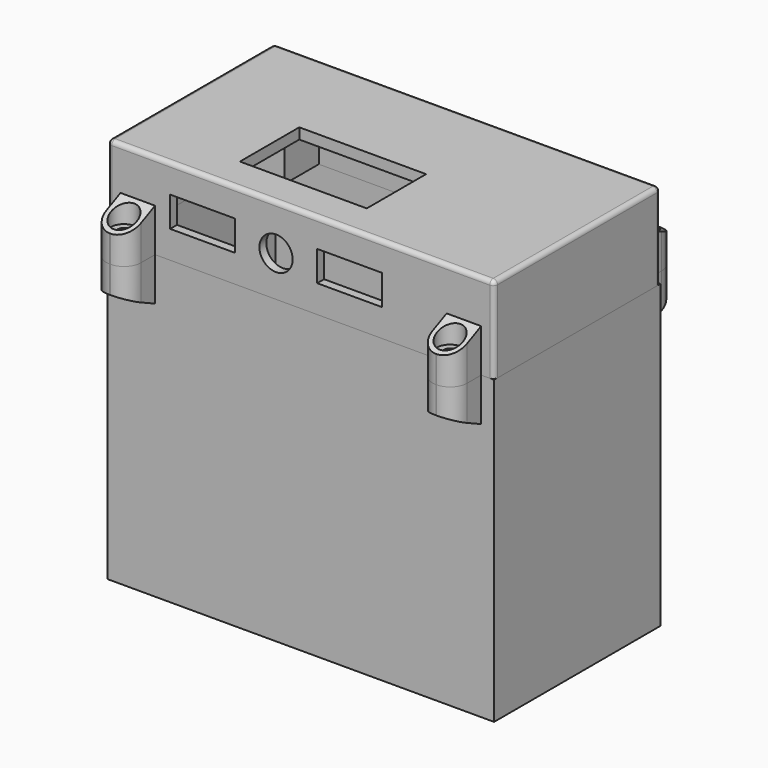
from build123d import *

# Parameters (mm, degrees)
SKETCH_W        = 89.6
SKETCH_H        = 48.2
PAD_DEPTH       = 20
SKETCH001_W     = 85.6
SKETCH001_H     = 44.2
POCKET_DEPTH    = 17.5
SKETCH016_R     = 3.853064
SKETCH016_W     = 15
SKETCH016_H     = 7
POCKET010_DEPTH = 5
SKETCH017_W     = 9
SKETCH017_H     = 4
POCKET011_DEPTH = 5
SKETCH018_W     = 29.4
SKETCH018_H     = 17.2
POCKET012_DEPTH = 5
SKETCH019_R     = 2
SKETCH019_R_2   = 0.7
PAD006_DEPTH    = 3
SKETCH020_W     = 8
SKETCH020_H     = 10
PAD007_DEPTH    = 8
FILLET_R        = 3.9
SKETCH021_R     = 1.5
POCKET013_DEPTH = 20
SKETCH022_W     = 8
SKETCH022_H     = 10
PAD008_DEPTH    = 8
FILLET002_R     = 3.9
SKETCH023_R     = 1.5
POCKET014_DEPTH = 20
SKETCH024_R     = 3
POCKET015_DEPTH = 5
FILLET003_R     = 1
SKETCH028_W     = 10
SKETCH028_H     = 10
PAD011_DEPTH    = 17.5
POCKET017_DEPTH = 100
SKETCH013_W     = 89.6
SKETCH013_H     = 48.2
PAD005_DEPTH    = 69.8
SKETCH014_W     = 85.6
SKETCH014_H     = 44.2
POCKET008_DEPTH = 67.8
SKETCH025_W     = 8
SKETCH025_H     = 10
PAD009_DEPTH    = 8
FILLET004_R     = 3.9
FILLET005_R     = 3.9
SKETCH026_W     = 8
SKETCH026_H     = 10
PAD010_DEPTH    = 8
FILLET006_R     = 3.9
SKETCH027_R     = 1
POCKET016_DEPTH = 9
POCKET018_DEPTH = 100


with BuildPart() as tampa:
    # Sketch → Pad (new body)
    with BuildSketch(Plane.XY):
        with Locations((44.8, 24.1)):
            Rectangle(SKETCH_W, SKETCH_H)
    extrude(amount=PAD_DEPTH)

    # Sketch001 (on Face5 of Pad) → Pocket (cut)
    with BuildSketch(Plane(origin=(0, 0, 0), x_dir=(1, 0, 0), z_dir=(0, 0, -1))):
        with Locations((44.8, -24.1)):
            Rectangle(SKETCH001_W, SKETCH001_H)
    extrude(amount=-POCKET_DEPTH, mode=Mode.SUBTRACT)

    # Sketch016 (on Face1 of Pocket) → Pocket010 (cut)
    with BuildSketch(Plane.XZ):
        with Locations((39.05, 9.4)):
            Circle(SKETCH016_R)
        with Locations((22, 9.9)):
            Rectangle(SKETCH016_W, SKETCH016_H)
        with Locations((56.1, 9.9)):
            Rectangle(SKETCH016_W, SKETCH016_H)
    extrude(amount=-POCKET010_DEPTH, mode=Mode.SUBTRACT)

    # Sketch017 (on Face2 of Pocket010) → Pocket011 (cut)
    with BuildSketch(Plane(origin=(0, 0, 0), x_dir=(0, -1, 0), z_dir=(-1, 0, 0))):
        with Locations((-19, 11.9)):
            Rectangle(SKETCH017_W, SKETCH017_H)
    extrude(amount=-POCKET011_DEPTH, mode=Mode.SUBTRACT)

    # Sketch018 (on Face4 of Pocket011) → Pocket012 (cut)
    with BuildSketch(Plane.XY.offset(20)):
        with Locations((38.9, 16.7)):
            Rectangle(SKETCH018_W, SKETCH018_H)
    extrude(amount=-POCKET012_DEPTH, mode=Mode.SUBTRACT)

    # Sketch019 (on Face28 of Pocket012) → Pad006 (join)
    with BuildSketch(Plane(origin=(0, 0, 17.5), x_dir=(1, 0, 0), z_dir=(0, 0, -1))):
        with Locations((6.3, -6)):
            Circle(SKETCH019_R)
        with Locations((6.3, -6)):
            Circle(SKETCH019_R_2, mode=Mode.SUBTRACT)
        with Locations((66, -23.1)):
            Circle(SKETCH019_R)
        with Locations((66, -23.1)):
            Circle(SKETCH019_R_2, mode=Mode.SUBTRACT)
    extrude(amount=PAD006_DEPTH)

    # Sketch020 (on Face15 of Pad006) → Pad007 (join)
    with BuildSketch(Plane(origin=(0, 48.2, 0), x_dir=(-1, 0, 0), z_dir=(0, 1, 0))):
        with Locations((-7, 5)):
            Rectangle(SKETCH020_W, SKETCH020_H)
        with Locations((-82.6, 5)):
            Rectangle(SKETCH020_W, SKETCH020_H)
    extrude(amount=PAD007_DEPTH)

    # Fillet
    fillet_edges = [tampa.edges().sort_by_distance(p)[0] for p in [
        (86.6, 56.2, 5),
        (78.6, 56.2, 5),
        (11, 56.2, 5),
        (3, 56.2, 5),
    ]]
    fillet(fillet_edges, radius=FILLET_R)

    # Sketch021 (on Face13 of Fillet) → Pocket013 (cut)
    with BuildSketch(Plane(origin=(0, 0, 0), x_dir=(1, 0, 0), z_dir=(0, 0, -1))):
        with Locations((7, -52.2)):
            Circle(SKETCH021_R)
        with Locations((82.6, -52.2)):
            Circle(SKETCH021_R)
    extrude(amount=-POCKET013_DEPTH, mode=Mode.SUBTRACT)

    # Sketch022 (on Face11 of Pocket013) → Pad008 (join)
    with BuildSketch(Plane.XZ):
        with Locations((7, 5)):
            Rectangle(SKETCH022_W, SKETCH022_H)
        with Locations((82.6, 5)):
            Rectangle(SKETCH022_W, SKETCH022_H)
    extrude(amount=PAD008_DEPTH)

    # Fillet002
    fillet002_edges = [tampa.edges().sort_by_distance(p)[0] for p in [
        (11, -8, 5),
        (3, -8, 5),
        (78.6, -8, 5),
        (86.6, -8, 5),
    ]]
    fillet(fillet002_edges, radius=FILLET002_R)

    # Sketch023 (on Face1 of Fillet002) → Pocket014 (cut)
    with BuildSketch(Plane(origin=(0, 0, 0), x_dir=(1, 0, 0), z_dir=(0, 0, -1))):
        with Locations((7, 4)):
            Circle(SKETCH023_R)
        with Locations((82.6, 4)):
            Circle(SKETCH023_R)
    extrude(amount=-POCKET014_DEPTH, mode=Mode.SUBTRACT)

    # Sketch024 → Pocket015 (cut)
    with BuildSketch(Plane.XY.offset(10)):
        with Locations((7, 52.2)):
            Circle(SKETCH024_R)
        with Locations((82.6, 52.2)):
            Circle(SKETCH024_R)
        with Locations((82.6, -4)):
            Circle(SKETCH024_R)
        with Locations((7, -4)):
            Circle(SKETCH024_R)
    extrude(amount=-POCKET015_DEPTH, mode=Mode.SUBTRACT)

    # Fillet003
    fillet003_edges = [tampa.edges().sort_by_distance(p)[0] for p in [
        (44.8, 0, 20),
        (0, 24.1, 20),
        (44.8, 48.2, 20),
        (89.6, 24.1, 20),
        (89.6, 48.2, 10),
        (89.6, 0, 10),
        (0, 0, 10),
        (0, 48.2, 10),
    ]]
    fillet(fillet003_edges, radius=FILLET003_R)

    # Sketch028 (on Face67 of Fillet003) → Pad011 (join)
    with BuildSketch(Plane(origin=(0, 0, 17.5), x_dir=(1, 0, 0), z_dir=(0, 0, -1))):
        with Locations((7, -41.2)):
            Rectangle(SKETCH028_W, SKETCH028_H)
        with Locations((82.6, -41.2)):
            Rectangle(SKETCH028_W, SKETCH028_H)
        with Locations((82.6, -7)):
            Rectangle(SKETCH028_W, SKETCH028_H)
    extrude(amount=PAD011_DEPTH)

    # Sketch029 (on Face11 of Pad011) → Pocket017 (cut)
    with BuildSketch(Plane.YZ.offset(89.6)):
        Polygon((0, 10), (-10, 5.336923), (-10, 10), align=None)
        Polygon((48.114635, 10), (58.114635, 10), (58.114635, 5.336923), align=None)
    extrude(amount=-POCKET017_DEPTH, mode=Mode.SUBTRACT)


with BuildPart() as base:
    # Sketch013 → Pad005 (new body)
    with BuildSketch(Plane.XY):
        with Locations((44.8, 24.1)):
            Rectangle(SKETCH013_W, SKETCH013_H)
    extrude(amount=-PAD005_DEPTH)

    # Sketch014 (on Face5 of Pad005) → Pocket008 (cut)
    with BuildSketch(Plane.XY):
        with Locations((44.8, 24.1)):
            Rectangle(SKETCH014_W, SKETCH014_H)
    extrude(amount=-POCKET008_DEPTH, mode=Mode.SUBTRACT)

    # Sketch025 (on Face1 of Pocket008) → Pad009 (join)
    with BuildSketch(Plane(origin=(0, 48.2, 0), x_dir=(-1, 0, 0), z_dir=(0, 1, 0))):
        with Locations((-82.6, -5)):
            Rectangle(SKETCH025_W, SKETCH025_H)
        with Locations((-7, -5)):
            Rectangle(SKETCH025_W, SKETCH025_H)
    extrude(amount=PAD009_DEPTH)

    # Fillet004
    fillet004_edges = [base.edges().sort_by_distance(p)[0] for p in [
        (3, 56.2, -5),
        (11, 56.2, -5),
    ]]
    fillet(fillet004_edges, radius=FILLET004_R)

    # Fillet005
    fillet005_edges = [base.edges().sort_by_distance(p)[0] for p in [
        (86.6, 56.2, -5),
        (78.6, 56.2, -5),
    ]]
    fillet(fillet005_edges, radius=FILLET005_R)

    # Sketch026 (on Face17 of Fillet005) → Pad010 (join)
    with BuildSketch(Plane.XZ):
        with Locations((7, -5)):
            Rectangle(SKETCH026_W, SKETCH026_H)
        with Locations((82.6, -5)):
            Rectangle(SKETCH026_W, SKETCH026_H)
    extrude(amount=PAD010_DEPTH)

    # Fillet006
    fillet006_edges = [base.edges().sort_by_distance(p)[0] for p in [
        (3, -8, -5),
        (11, -8, -5),
        (78.6, -8, -5),
        (86.6, -8, -5),
    ]]
    fillet(fillet006_edges, radius=FILLET006_R)

    # Sketch027 (on Face15 of Fillet006) → Pocket016 (cut)
    with BuildSketch(Plane.XY):
        with Locations((7, 52.2)):
            Circle(SKETCH027_R)
        with Locations((82.6, 52.2)):
            Circle(SKETCH027_R)
        with Locations((7, -4)):
            Circle(SKETCH027_R)
        with Locations((82.6, -4)):
            Circle(SKETCH027_R)
    extrude(amount=-POCKET016_DEPTH, mode=Mode.SUBTRACT)

    # Sketch030 (on Face31 of Pocket016) → Pocket018 (cut)
    with BuildSketch(Plane.YZ.offset(86.6)):
        Polygon((0, -10), (-10, -5.336923), (-10, -10), align=None)
        Polygon((48.2, -10), (58.2, -10), (58.2, -5.336923), align=None)
    extrude(amount=-POCKET018_DEPTH, mode=Mode.SUBTRACT)


solid = Compound([tampa.part, base.part])
